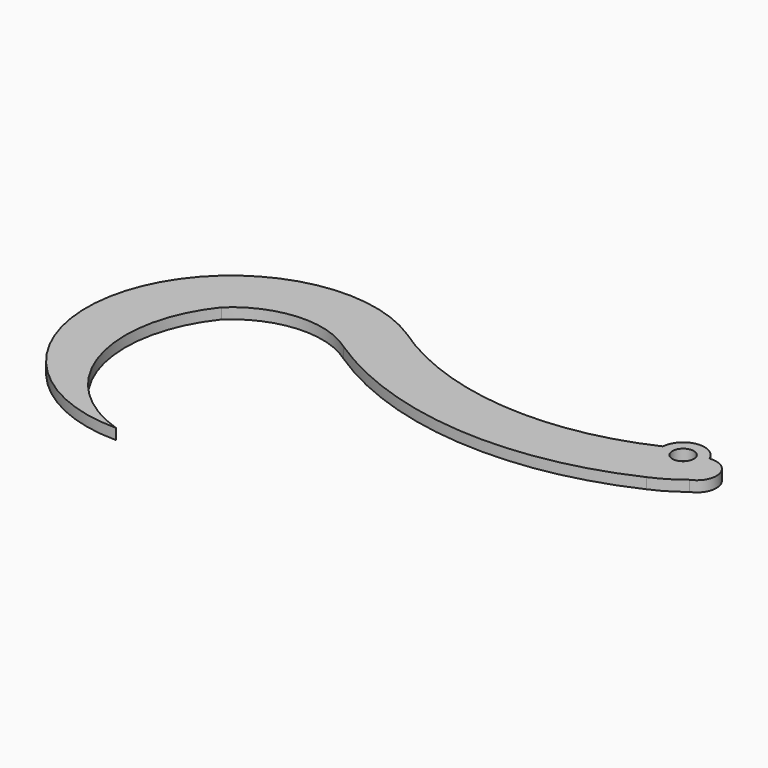
from build123d import *

# Parameters (mm, degrees)
F0_R     = 5
F1_DEPTH = 5


with BuildPart() as f1:
    # F0 (on Top) → F1 (new body)
    with BuildSketch(Plane.XY):
        with BuildLine():
            ThreePointArc((165.022992, 45.677721), (99.392758, 34.157347), (36.67612, 56.666677))
            ThreePointArc((36.67612, 56.666677), (-64.76451, 19.021258), (0.208612, -67.499678))
            ThreePointArc((0.208612, -67.499678), (-40.226954, -26.047967), (-29.270659, 30.813609))
            ThreePointArc((-29.270659, 30.813609), (-2.960146, 42.396787), (24.704722, 34.582173))
            ThreePointArc((24.704722, 34.582173), (98.597431, 9.139806), (175.511513, 22.984309))
            ThreePointArc((175.511513, 22.984309), (182.544206, 26.59511), (189.016125, 31.135037))
            ThreePointArc((189.016125, 31.135037), (194.510373, 42.034346), (184.288439, 48.704713))
            ThreePointArc((184.288439, 48.704713), (173.447839, 54.878805), (165.022992, 45.677721))
        make_face()
        with Locations((175, 45)):
            Circle(F0_R, mode=Mode.SUBTRACT)
    extrude(amount=F1_DEPTH)


solid = f1.part
